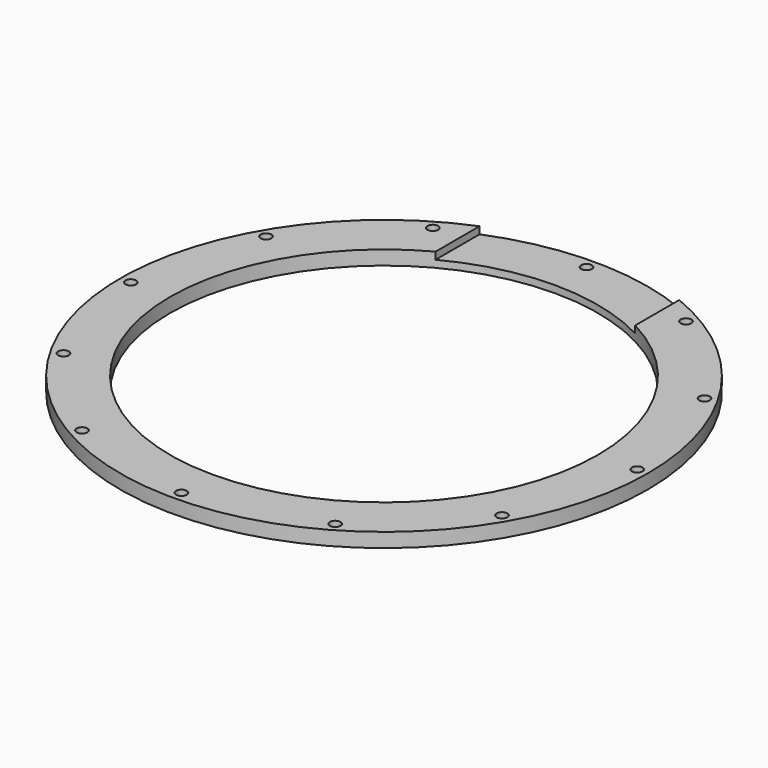
from build123d import *

# Parameters (mm, degrees)
BOX318_W                     = 56
BOX318_H                     = 200
BOX318_DEPTH                 = 47
CYLINDER2007_R               = 1.5
CYLINDER2007_DEPTH           = 72
CYLINDER2007_PLACEMENT_ANGLE = 30
CYLINDER2006_R               = 1.5
CYLINDER2006_DEPTH           = 72
CYLINDER2006_PLACEMENT_ANGLE = 60
CYLINDER2011_R               = 1.5
CYLINDER2011_DEPTH           = 72
CYLINDER2012_R               = 1.5
CYLINDER2012_DEPTH           = 72
CYLINDER2012_PLACEMENT_ANGLE = 120
CYLINDER2013_R               = 1.5
CYLINDER2013_DEPTH           = 72
CYLINDER2013_PLACEMENT_ANGLE = 150
CYLINDER2010_R               = 1.5
CYLINDER2010_DEPTH           = 72
CYLINDER2017_R               = 1.5
CYLINDER2017_DEPTH           = 72
CYLINDER2017_PLACEMENT_ANGLE = 210
CYLINDER2016_R               = 1.5
CYLINDER2016_DEPTH           = 72
CYLINDER2016_PLACEMENT_ANGLE = 240
CYLINDER2015_R               = 1.5
CYLINDER2015_DEPTH           = 72
CYLINDER2008_R               = 1.5
CYLINDER2008_DEPTH           = 72
CYLINDER2008_PLACEMENT_ANGLE = 60
CYLINDER2014_R               = 1.5
CYLINDER2014_DEPTH           = 72
CYLINDER2014_PLACEMENT_ANGLE = 30
CYLINDER2009_R               = 1.5
CYLINDER2009_DEPTH           = 72
TUBE052_R                    = 74
TUBE052_R_2                  = 60
TUBE052_DEPTH                = 4


with BuildPart() as krychle318:
    # Box318 → Box318 (new body)
    with BuildSketch(Plane(origin=(-28, 0, 27), x_dir=(1, 0, 0), z_dir=(0, 0, 1))):
        with Locations((28, 100)):
            Rectangle(BOX318_W, BOX318_H)
    extrude(amount=BOX318_DEPTH)


with BuildPart() as obj1:
    # Cylinder2007 → Cylinder2007 (new body)
    with BuildSketch(Plane.XY):
        Circle(CYLINDER2007_R)
    extrude(amount=CYLINDER2007_DEPTH)


with BuildPart() as obj1_1:
    # Cylinder2007 placement: moved
    add(obj1.part.moved(Location((35.5, -61.487804, 0))).rotate(Axis((35.5, -61.487804, 0), (0, 0, 1)), CYLINDER2007_PLACEMENT_ANGLE))


with BuildPart() as obj2:
    # Cylinder2006 → Cylinder2006 (new body)
    with BuildSketch(Plane.XY):
        Circle(CYLINDER2006_R)
    extrude(amount=CYLINDER2006_DEPTH)


with BuildPart() as obj2_1:
    # Cylinder2006 placement: moved
    add(obj2.part.moved(Location((61.487804, -35.5, 0))).rotate(Axis((61.487804, -35.5, 0), (0, 0, 1)), CYLINDER2006_PLACEMENT_ANGLE))


with BuildPart() as obj3:
    # Cylinder2011 → Cylinder2011 (new body)
    with BuildSketch(Plane(origin=(71, 0, 0), x_dir=(0, 1, 0), z_dir=(0, 0, 1))):
        Circle(CYLINDER2011_R)
    extrude(amount=CYLINDER2011_DEPTH)


with BuildPart() as obj4:
    # Cylinder2012 → Cylinder2012 (new body)
    with BuildSketch(Plane.XY):
        Circle(CYLINDER2012_R)
    extrude(amount=CYLINDER2012_DEPTH)


with BuildPart() as obj4_1:
    # Cylinder2012 placement: moved
    add(obj4.part.moved(Location((61.487804, 35.5, 0))).rotate(Axis((61.487804, 35.5, 0), (0, 0, 1)), CYLINDER2012_PLACEMENT_ANGLE))


with BuildPart() as obj5:
    # Cylinder2013 → Cylinder2013 (new body)
    with BuildSketch(Plane.XY):
        Circle(CYLINDER2013_R)
    extrude(amount=CYLINDER2013_DEPTH)


with BuildPart() as obj5_1:
    # Cylinder2013 placement: moved
    add(obj5.part.moved(Location((35.5, 61.487804, 0))).rotate(Axis((35.5, 61.487804, 0), (0, 0, 1)), CYLINDER2013_PLACEMENT_ANGLE))


with BuildPart() as obj6:
    # Cylinder2010 → Cylinder2010 (new body)
    with BuildSketch(Plane(origin=(0, 71, 0), x_dir=(-1, 0, 0), z_dir=(0, 0, 1))):
        Circle(CYLINDER2010_R)
    extrude(amount=CYLINDER2010_DEPTH)


with BuildPart() as obj7:
    # Cylinder2017 → Cylinder2017 (new body)
    with BuildSketch(Plane.XY):
        Circle(CYLINDER2017_R)
    extrude(amount=CYLINDER2017_DEPTH)


with BuildPart() as obj7_1:
    # Cylinder2017 placement: moved
    add(obj7.part.moved(Location((-35.5, 61.487804, 0))).rotate(Axis((-35.5, 61.487804, 0), (0, 0, 1)), CYLINDER2017_PLACEMENT_ANGLE))


with BuildPart() as obj8:
    # Cylinder2016 → Cylinder2016 (new body)
    with BuildSketch(Plane.XY):
        Circle(CYLINDER2016_R)
    extrude(amount=CYLINDER2016_DEPTH)


with BuildPart() as obj8_1:
    # Cylinder2016 placement: moved
    add(obj8.part.moved(Location((-61.487804, 35.5, 0))).rotate(Axis((-61.487804, 35.5, 0), (0, 0, 1)), CYLINDER2016_PLACEMENT_ANGLE))


with BuildPart() as obj9:
    # Cylinder2015 → Cylinder2015 (new body)
    with BuildSketch(Plane(origin=(-71, 0, 0), x_dir=(0, -1, 0), z_dir=(0, 0, 1))):
        Circle(CYLINDER2015_R)
    extrude(amount=CYLINDER2015_DEPTH)


with BuildPart() as obj10:
    # Cylinder2008 → Cylinder2008 (new body)
    with BuildSketch(Plane.XY):
        Circle(CYLINDER2008_R)
    extrude(amount=CYLINDER2008_DEPTH)


with BuildPart() as obj10_1:
    # Cylinder2008 placement: moved
    add(obj10.part.moved(Location((-61.487804, -35.5, 0))).rotate(Axis((-61.487804, -35.5, 0), (0, 0, -1)), CYLINDER2008_PLACEMENT_ANGLE))


with BuildPart() as obj11:
    # Cylinder2014 → Cylinder2014 (new body)
    with BuildSketch(Plane.XY):
        Circle(CYLINDER2014_R)
    extrude(amount=CYLINDER2014_DEPTH)


with BuildPart() as obj11_1:
    # Cylinder2014 placement: moved
    add(obj11.part.moved(Location((-35.5, -61.487804, 0))).rotate(Axis((-35.5, -61.487804, 0), (0, 0, -1)), CYLINDER2014_PLACEMENT_ANGLE))


with BuildPart() as compound1084:
    # Cylinder2009 → Cylinder2009 (new body)
    with BuildSketch(Plane(origin=(0, -71, 0), x_dir=(1, 0, 0), z_dir=(0, 0, 1))):
        Circle(CYLINDER2009_R)
    extrude(amount=CYLINDER2009_DEPTH)

    # Compound1084: union obj1, obj2, obj3, obj4, obj5, obj6, obj7, obj8, obj9, obj10, obj11
    add(obj1_1.part)
    add(obj2_1.part)
    add(obj3.part)
    add(obj4_1.part)
    add(obj5_1.part)
    add(obj6.part)
    add(obj7_1.part)
    add(obj8_1.part)
    add(obj9.part)
    add(obj10_1.part)
    add(obj11_1.part)


with BuildPart() as compound1084_1:
    # Compound1084 placement: moved
    add(compound1084.part.moved(Location((0, 0, -4))))


with BuildPart() as cut683:
    # Tube052 → Tube052 (new body)
    with BuildSketch(Plane.XY.offset(25)):
        Circle(TUBE052_R)
        Circle(TUBE052_R_2, mode=Mode.SUBTRACT)
    extrude(amount=TUBE052_DEPTH)

    # Cut678: cut Compound1084
    add(compound1084_1.part, mode=Mode.SUBTRACT)

    # Cut683: cut Krychle318
    add(krychle318.part, mode=Mode.SUBTRACT)


solid = cut683.part
